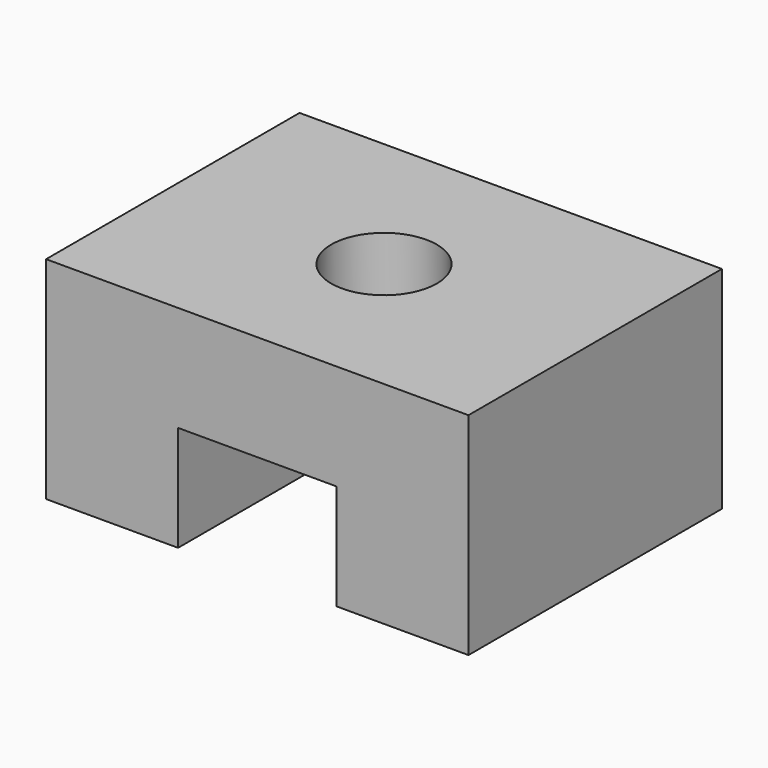
from build123d import *

# Parameters (mm, degrees)
F1_DEPTH = 152.4
F2_R     = 25.4
F3_DEPTH = 101.601


with BuildPart() as f1:
    # F0 (on Front) → F1 (new body)
    with BuildSketch(Plane.XZ):
        Polygon((0, 101.6), (0, 0), (63.5, 0), (63.5, 50.8), (139.7, 50.8), (139.7, 0), (203.2, 0), (203.2, 101.6), align=None)
    extrude(amount=F1_DEPTH)

    # F2 (on face) → F3 (cut, through all)
    with BuildSketch(Plane.XY.offset(101.6)):
        with Locations((101.6, -76.2)):
            Circle(F2_R)
    extrude(amount=-F3_DEPTH, mode=Mode.SUBTRACT)


solid = f1.part
